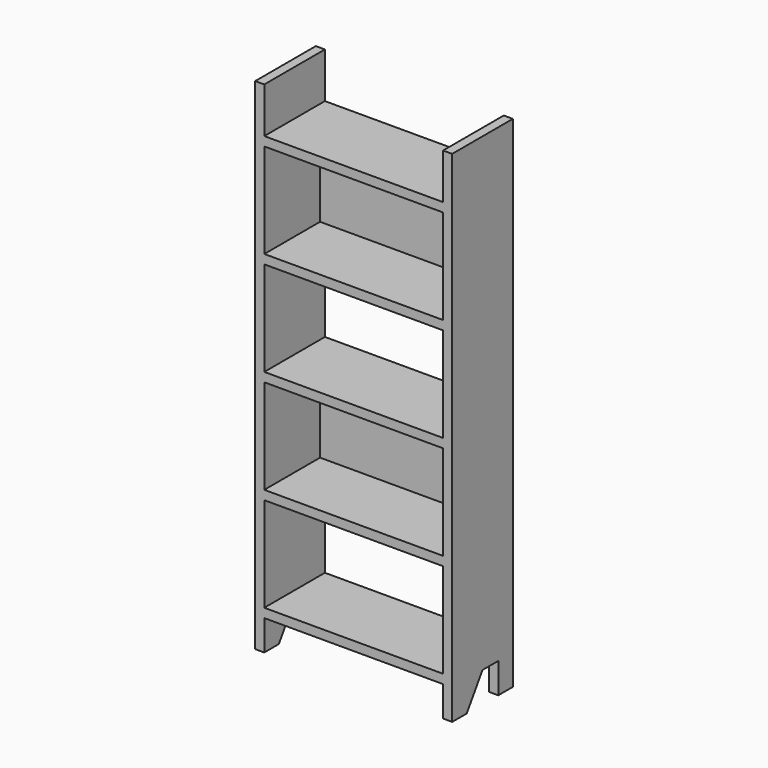
from build123d import *

# Parameters (mm, degrees)
F0_W     = 5.9
F0_H     = 0.3
F1_DEPTH = 2.5
F0_H_2   = 3.125
F2_DEPTH = 0.2
F4_DEPTH = 6.501


with BuildPart() as f1:
    # F0 (on Front) → F1 (new body)
    with BuildSketch(Plane.XZ):
        Polygon((-3.25, 16.5), (-3.25, 0), (-2.95, 0), (-2.95, 1), (-2.95, 1.3), (-2.95, 4.425), (-2.95, 4.725), (-2.95, 7.85), (-2.95, 8.15), (-2.95, 11.275), (-2.95, 11.575), (-2.95, 14.7), (-2.95, 15), (-2.95, 16.5), align=None)
        Polygon((2.95, 1), (2.95, 0), (3.25, 0), (3.25, 16.5), (2.95, 16.5), (2.95, 15), (2.95, 14.7), (2.95, 11.575), (2.95, 11.275), (2.95, 8.15), (2.95, 7.85), (2.95, 4.725), (2.95, 4.425), (2.95, 1.3), align=None)
        with Locations((0, 14.85)):
            Rectangle(F0_W, F0_H)
        with Locations((0, 11.425)):
            Rectangle(F0_W, F0_H)
        with Locations((0, 8)):
            Rectangle(F0_W, F0_H)
        with Locations((0, 4.575)):
            Rectangle(F0_W, F0_H)
        with Locations((0, 1.15)):
            Rectangle(F0_W, F0_H)
    extrude(amount=F1_DEPTH)

    # F0 (on Front) → F2 (join)
    with BuildSketch(Plane.XZ):
        with Locations((0, 13.1375)):
            Rectangle(F0_W, F0_H_2)
        with Locations((0, 6.2875)):
            Rectangle(F0_W, F0_H_2)
    extrude(amount=F2_DEPTH)

    # F3 (on face) → F4 (cut, through all)
    with BuildSketch(Plane.YZ.offset(3.25)):
        Polygon((-1.9, 0), (-0.6, 0), (-0.6, 1), (-1.25, 1), align=None)
    extrude(amount=-F4_DEPTH, mode=Mode.SUBTRACT)


solid = f1.part
